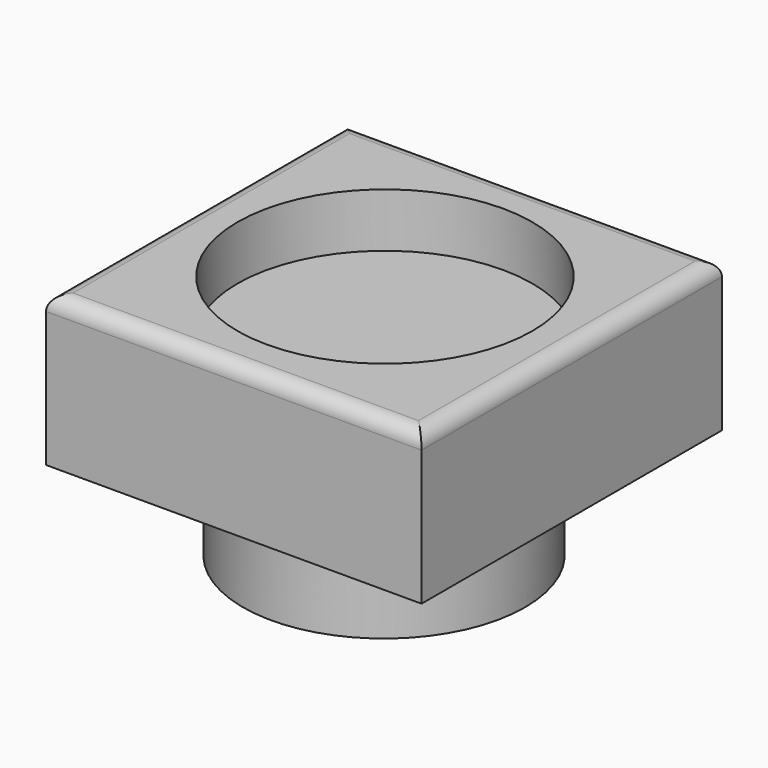
from build123d import *

# Parameters (mm, degrees)
F0_W     = 50
F0_H     = 50
F1_DEPTH = 20
F2_R     = 2
F3_R     = 18.791434
F4_DEPTH = 32.6
F6_R     = 19.635013
F7_DEPTH = 7.2


with BuildPart() as f1:
    # F0 (on Top) → F1 (new body)
    with BuildSketch(Plane.XY):
        with Locations((25, 25)):
            Rectangle(F0_W, F0_H)
    extrude(amount=F1_DEPTH)

    # F2
    f2_edges = [f1.edges().sort_by_distance(p)[0] for p in [
        (50, 25, 20),
        (25, 50, 20),
        (0, 25, 20),
        (25, 0, 20),
    ]]
    fillet(f2_edges, radius=F2_R)

    # F3 (on face) → F4 (join)
    with BuildSketch(Plane.XY.offset(20)):
        with Locations((25, 25)):
            Circle(F3_R)
    extrude(amount=-F4_DEPTH)

    # F6 (on face) → F7 (cut)
    with BuildSketch(Plane.XY.offset(20)):
        with Locations((25, 25.156734)):
            Circle(F6_R)
    extrude(amount=-F7_DEPTH, mode=Mode.SUBTRACT)


solid = f1.part
